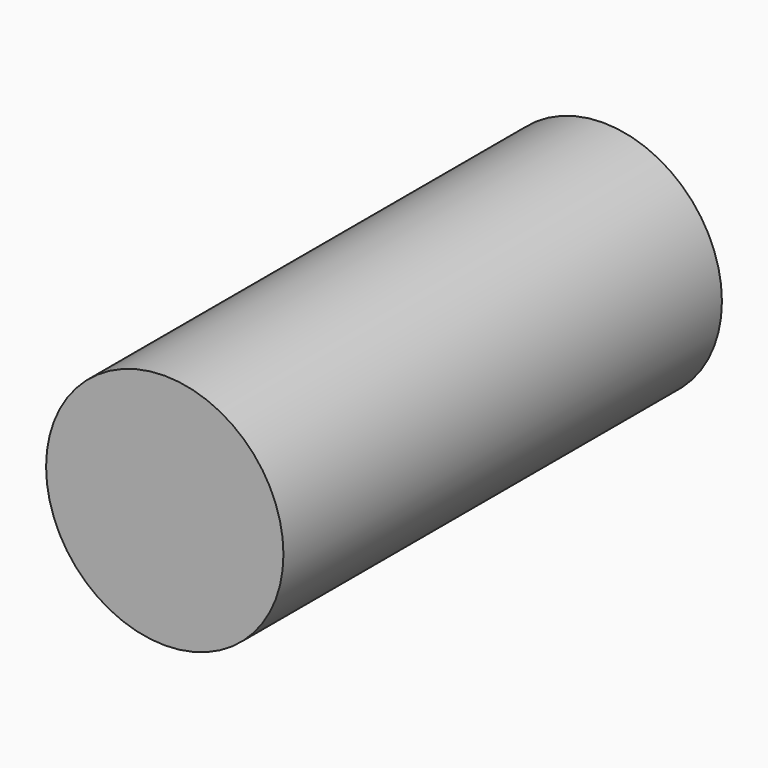
from build123d import *

# Parameters (mm, degrees)
F0_R     = 16.5
F0_W     = 12.3
F0_H     = 12.2936
F1_DEPTH = 25.4
F2_R     = 16.5
F3_DEPTH = 50.8


with BuildPart() as f1:
    # F0 (on Front) → F1 (new body)
    with BuildSketch(Plane.XZ):
        Circle(F0_R)
        Rectangle(F0_W, F0_H, mode=Mode.SUBTRACT)
    extrude(amount=F1_DEPTH)

    # F2 (on face) → F3 (join)
    with BuildSketch(Plane.XZ.offset(25.4)):
        Circle(F2_R)
    extrude(amount=F3_DEPTH)


solid = f1.part
